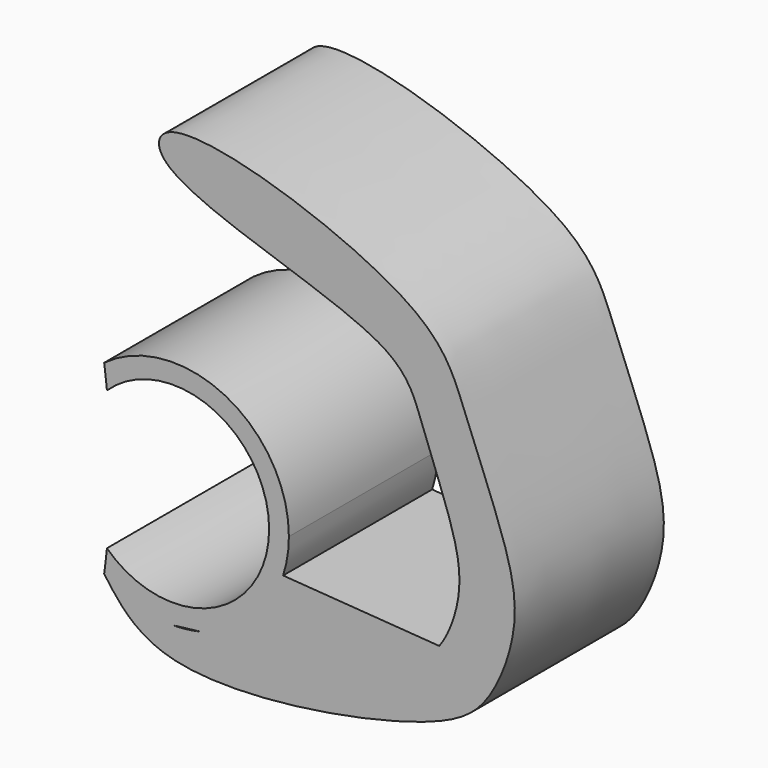
from build123d import *

# Parameters (mm, degrees)
F0_R     = 17
F1_DEPTH = 33
F3_DEPTH = 34


with BuildPart() as f1:
    # F0 (on Front) → F1 (new body)
    with BuildSketch(Plane.XZ):
        with BuildLine():
            ThreePointArc((19.4731152736, -6.4068542625), (20.2416509098, -3.2443132472), (20.5, 0))
            ThreePointArc((20.5, 0), (-9.2141408057, 18.3125533231), (-12.2170350451, -16.4618970567))
            ThreePointArc((-12.2170350451, -16.4618970567), (-6.4335491891, -19.4643120822), (0, -20.5))
            add(Edge.make_bspline(
                [(0, -20.5), (1.5923277892, -20.3387229972), (3.2103894704, -20.1435054126), (4.8405505775, -19.9203180222)],
                knots=[0, 0, 0, 0, 0.0097055297, 0.0097055297, 0.0097055297, 0.0097055297], degree=3))
            ThreePointArc((4.8405505775, -19.9203180222), (13.9083432685, -15.0601456674), (19.4731152736, -6.4068542625))
        make_face()
        Circle(F0_R, mode=Mode.SUBTRACT)
        with BuildLine():
            Line((47.1277758479, -8.3941109478), (19.4731152736, -6.4068542625))
            ThreePointArc((19.4731152736, -6.4068542625), (13.9083432685, -15.0601456674), (4.8405505775, -19.9203180222))
            add(Edge.make_bspline(
                [(4.8405505775, -19.9203180222), (19.3083042012, -17.9395198291), (41.3782962579, -11.9516137028), (45.8775985283, -10.0005252755), (47.1277758479, -8.3941109478)],
                knots=[0.0097055297, 0.0097055297, 0.0097055297, 0.0097055297, 0.0958425452, 0.1329835337, 0.1329835337, 0.1329835337, 0.1329835337], degree=3))
        make_face()
        with BuildLine():
            ThreePointArc((0, -20.5), (-6.4335491891, -19.4643120822), (-12.2170350451, -16.4618970567))
            add(Edge.make_bspline(
                [(47.1277758479, -8.3941109478), (48.6145302876, -6.4837070426), (51.371695013, 0.4228746474), (50.1204611373, 10.2345910142), (43.6455696547, 25.4899955334), (40.2523571095, 38.0096816042), (-4.2956712076, 47.4867487704), (-1.6403297527, 61.4925929128), (45.9094079295, 45.3910513353), (51.0779401929, 30.5643720074), (58.4134066018, 13.1573460001), (61.8450652324, 0.3513720738), (56.8138673846, -13.8868258248), (47.0864641758, -22.6164354187), (-1.709479291, -31.0429870798), (-9.6027457486, -20.1027312705), (-12.2170350451, -16.4618970567)],
                knots=[0.1329835337, 0.1329835337, 0.1329835337, 0.1329835337, 0.1771528916, 0.2240193699, 0.2823648976, 0.3350577885, 0.4294454478, 0.4619906728, 0.5594747119, 0.6197453177, 0.6818994679, 0.7355171335, 0.7891034764, 0.8425485767, 0.9423633831, 1, 1, 1, 1], degree=3))
            add(Edge.make_bspline(
                [(4.8405505775, -19.9203180222), (19.3083042012, -17.9395198291), (41.3782962579, -11.9516137028), (45.8775985283, -10.0005252755), (47.1277758479, -8.3941109478)],
                knots=[0.0097055297, 0.0097055297, 0.0097055297, 0.0097055297, 0.0958425452, 0.1329835337, 0.1329835337, 0.1329835337, 0.1329835337], degree=3))
            ThreePointArc((4.8405505775, -19.9203180222), (2.4375685164, -20.3545636094), (0, -20.5))
        make_face()
    extrude(amount=F1_DEPTH)

    # F2 (on face) → F3 (cut)
    with BuildSketch(Plane.XZ.offset(33)):
        with BuildLine():
            ThreePointArc((-12.2170350451, 16.4618970567), (-20.5, 0), (-12.2170350451, -16.4618970567))
            ThreePointArc((-12.2170350451, -16.4618970567), (-11.9569100973, -14.3844886818), (-11.7318568687, -12.3029888406))
            ThreePointArc((-11.7318568687, -12.3029888406), (-17, 0), (-11.7318568687, 12.3029888406))
            ThreePointArc((-11.7318568687, 12.3029888406), (-11.9569100973, 14.3844886818), (-12.2170350451, 16.4618970567))
        make_face()
    extrude(amount=-F3_DEPTH, mode=Mode.SUBTRACT)


solid = f1.part
